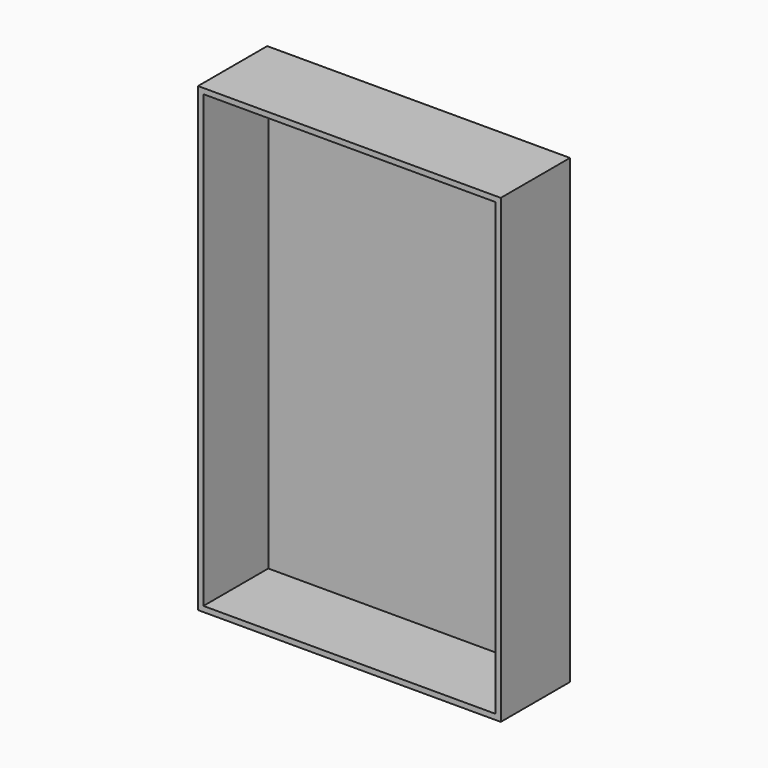
from build123d import *

# Parameters (mm, degrees)
F2_W     = 533.4
F2_H     = 152.4
F3_DEPTH = 812.8
F4_T     = -9.525


with BuildPart() as f3:
    # F2 (on offset) → F3 (new body)
    with BuildSketch(Plane.XY.offset(50.8)):
        with Locations((-266.7, -127)):
            Rectangle(F2_W, F2_H)
    extrude(amount=F3_DEPTH)

    # F4
    f4_openings = [f3.faces().sort_by_distance(p)[0] for p in [
        (-266.7, -203.2, 457.2),
    ]]
    offset(amount=F4_T, openings=f4_openings)


solid = f3.part
